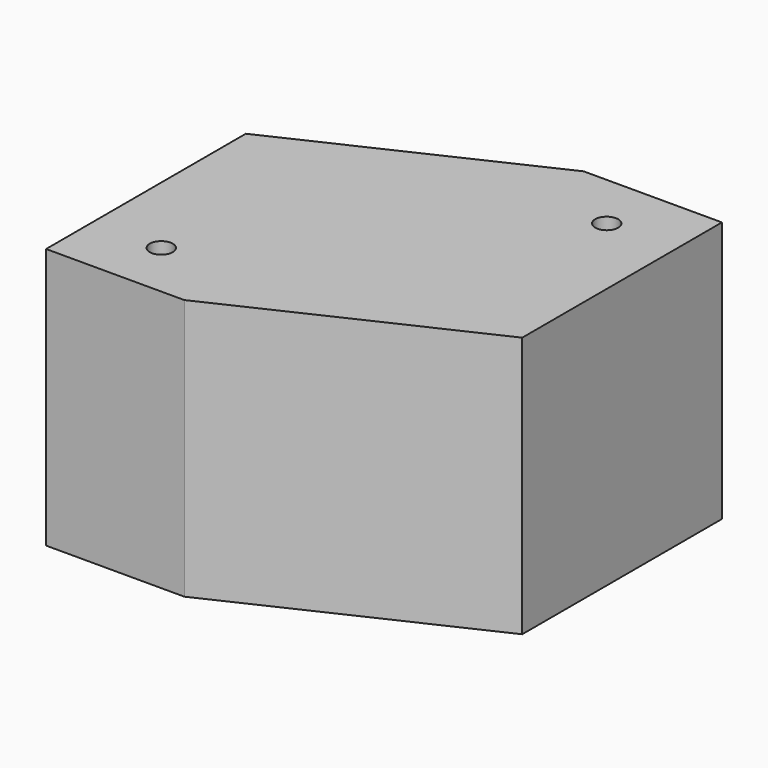
from build123d import *

# Parameters (mm, degrees)
F0_R     = 3
F1_DEPTH = 34


with BuildPart() as f1:
    # F0 (on Top) → F1 (new body, symmetric)
    with BuildSketch(Plane.XY):
        Polygon((47.538462, -15), (47.538462, 50), (11.538462, 50), (-52.461538, 20), (-52.461538, -45), (-16.461538, -45), align=None)
        with Locations((-34.461538, -30)):
            Circle(F0_R, mode=Mode.SUBTRACT)
        with Locations((29.538462, 35)):
            Circle(F0_R, mode=Mode.SUBTRACT)
    extrude(amount=F1_DEPTH, both=True)


solid = f1.part
